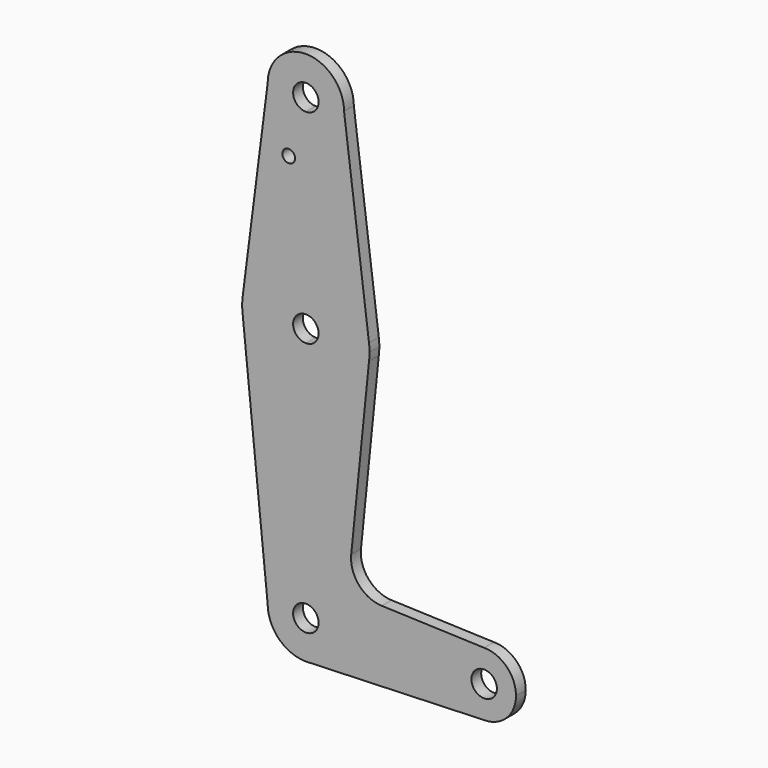
from build123d import *

# Parameters (mm, degrees)
F0_R     = 1.5875
F1_DEPTH = 3.048


with BuildPart() as f1:
    # F0 (on Front) → F1 (new body)
    with BuildSketch(Plane.XZ):
        with BuildLine():
            ThreePointArc((-90.6082894409, 82.9285051771), (-87.8184815317, 76.1933130863), (-81.0832894409, 73.4035051771))
            ThreePointArc((-81.0832894409, 73.4035051771), (-74.3480973501, 76.1933130863), (-71.5582894409, 82.9285051771))
            ThreePointArc((-71.5582894409, 82.9285051771), (-81.0832894409, 92.4535051771), (-90.6082894409, 82.9285051771))
        make_face()
        with BuildLine():
            ThreePointArc((-77.9082894409, 82.9285051771), (-78.8382254107, 80.6834411469), (-81.0832894409, 79.7535051771))
            ThreePointArc((-81.0832894409, 79.7535051771), (-83.3283534712, 85.1735692074), (-77.9082894409, 82.9285051771))
        make_face(mode=Mode.SUBTRACT)
        with BuildLine():
            ThreePointArc((-71.5582894409, 82.9285051771), (-74.3480973501, 76.1933130863), (-81.0832894409, 73.4035051771))
            Line((-81.0832894409, 73.4035051771), (-81.0832894409, 48.0035051771))
            ThreePointArc((-81.0832894409, 48.0035051771), (-70.5920065861, 44.0427239539), (-65.3358325362, 34.1367945075))
            Line((-65.3358325362, 34.1367945075), (-71.5582894409, 82.9285051771))
        make_face()
        with BuildLine():
            Line((-81.0832894409, 48.0035051771), (-81.0832894409, 73.4035051771))
            ThreePointArc((-81.0832894409, 73.4035051771), (-87.8184815317, 76.1933130863), (-90.6082894409, 82.9285051771))
            Line((-90.6082894409, 82.9285051771), (-96.8307463456, 34.1367945075))
            ThreePointArc((-96.8307463456, 34.1367945075), (-91.5745722958, 44.0427239539), (-81.0832894409, 48.0035051771))
        make_face()
        with Locations((-85.3573977947, 68.6537051771)):
            Circle(F0_R, mode=Mode.SUBTRACT)
        with BuildLine():
            ThreePointArc((-65.3358325362, 34.1367945075), (-70.5920065861, 44.0427239539), (-81.0832894409, 48.0035051771))
            Line((-81.0832894409, 48.0035051771), (-81.0832894409, 35.3035051771))
            ThreePointArc((-81.0832894409, 35.3035051771), (-78.8382254107, 34.3735692074), (-77.9082894409, 32.1285051771))
            ThreePointArc((-77.9082894409, 32.1285051771), (-78.8382254107, 29.8834411469), (-81.0832894409, 28.9535051771))
            Line((-81.0832894409, 28.9535051771), (-81.0832894409, 16.2535051771))
            ThreePointArc((-81.0832894409, 16.2535051771), (-70.5920065861, 20.2142864004), (-65.3358325362, 30.1202158468))
            ThreePointArc((-65.3358325362, 30.1202158468), (-65.2402073014, 31.1223375376), (-65.2082894409, 32.1285051771))
            ThreePointArc((-65.2082894409, 32.1285051771), (-65.2402073014, 33.1346728167), (-65.3358325362, 34.1367945075))
        make_face()
        with BuildLine():
            Line((-81.0832894409, 35.3035051771), (-81.0832894409, 48.0035051771))
            ThreePointArc((-81.0832894409, 48.0035051771), (-91.5745722958, 44.0427239539), (-96.8307463456, 34.1367945075))
            ThreePointArc((-96.8307463456, 34.1367945075), (-96.9582894409, 32.1285051771), (-96.8307463456, 30.1202158468))
            ThreePointArc((-96.8307463456, 30.1202158468), (-91.5745722958, 20.2142864004), (-81.0832894409, 16.2535051771))
            Line((-81.0832894409, 16.2535051771), (-81.0832894409, 28.9535051771))
            ThreePointArc((-81.0832894409, 28.9535051771), (-84.2582894409, 32.1285051771), (-81.0832894409, 35.3035051771))
        make_face()
        with BuildLine():
            ThreePointArc((-81.0832894409, 16.2535051771), (-91.5745722958, 20.2142864004), (-96.8307463456, 30.1202158468))
            Line((-96.8307463456, 30.1202158468), (-90.6082894409, -31.3714948229))
            ThreePointArc((-90.6082894409, -31.3714948229), (-87.8184815317, -24.6363027321), (-81.0832894409, -21.8464948229))
            Line((-81.0832894409, -21.8464948229), (-81.0832894409, 16.2535051771))
        make_face()
        with BuildLine():
            ThreePointArc((-65.3358325362, 30.1202158468), (-70.5920065861, 20.2142864004), (-81.0832894409, 16.2535051771))
            Line((-81.0832894409, 16.2535051771), (-81.0832894409, -21.8464948229))
            ThreePointArc((-81.0832894409, -21.8464948229), (-74.3480973501, -24.6363027321), (-71.5582894409, -31.3714948229))
            Line((-71.5582894409, -31.3714948229), (-44.5707894409, -31.3714948229))
            ThreePointArc((-44.5707894409, -31.3714948229), (-42.2459495166, -25.7588347472), (-36.6332894409, -23.4339948229))
            Line((-36.6332894409, -23.4339948229), (-62.1518275664, -22.5226184612))
            ThreePointArc((-62.1518275664, -22.5226184612), (-67.8601287791, -19.8025144907), (-69.7778785666, -13.7770764073))
            Line((-69.7778785666, -13.7770764073), (-65.3358325362, 30.1202158468))
        make_face()
        with BuildLine():
            ThreePointArc((-81.0832894409, -21.8464948229), (-87.8184815317, -24.6363027321), (-90.6082894409, -31.3714948229))
            ThreePointArc((-90.6082894409, -31.3714948229), (-87.8184815317, -38.1066869137), (-81.0832894409, -40.8964948229))
            Line((-81.0832894409, -40.8964948229), (-80.4037989951, -40.8722273069))
            ThreePointArc((-80.4037989951, -40.8722273069), (-74.1119993345, -37.8620063013), (-71.5582894409, -31.3714948229))
            Line((-71.5582894409, -31.3714948229), (-77.9082894409, -31.3714948229))
            ThreePointArc((-77.9082894409, -31.3714948229), (-83.3283534712, -33.6165588531), (-81.0832894409, -28.1964948229))
            Line((-81.0832894409, -28.1964948229), (-81.0832894409, -21.8464948229))
        make_face()
        with BuildLine():
            Line((-80.4037989951, -40.8722273069), (-81.0832894409, -40.8964948229))
            ThreePointArc((-81.0832894409, -40.8964948229), (-80.7433276128, -40.8904260105), (-80.4037989951, -40.8722273069))
        make_face()
        with BuildLine():
            Line((-44.5707894409, -31.3714948229), (-71.5582894409, -31.3714948229))
            ThreePointArc((-71.5582894409, -31.3714948229), (-74.1119993345, -37.8620063013), (-80.4037989951, -40.8722273069))
            Line((-80.4037989951, -40.8722273069), (-36.6332894409, -39.3089948229))
            ThreePointArc((-36.6332894409, -39.3089948229), (-42.2459495166, -36.9841548985), (-44.5707894409, -31.3714948229))
        make_face()
        with BuildLine():
            ThreePointArc((-36.6332894409, -23.4339948229), (-42.2459495166, -25.7588347472), (-44.5707894409, -31.3714948229))
            ThreePointArc((-44.5707894409, -31.3714948229), (-42.2459495166, -36.9841548985), (-36.6332894409, -39.3089948229))
            ThreePointArc((-36.6332894409, -39.3089948229), (-31.0206293653, -36.9841548985), (-28.6957894409, -31.3714948229))
            ThreePointArc((-28.6957894409, -31.3714948229), (-31.0206293653, -25.7588347472), (-36.6332894409, -23.4339948229))
        make_face()
        with BuildLine():
            ThreePointArc((-33.4582894409, -31.3714948229), (-36.6332894409, -34.5464948229), (-39.8082894409, -31.3714948229))
            ThreePointArc((-39.8082894409, -31.3714948229), (-36.6332894409, -28.1964948229), (-33.4582894409, -31.3714948229))
        make_face(mode=Mode.SUBTRACT)
        with BuildLine():
            ThreePointArc((-71.5582894409, -31.3714948229), (-74.3480973501, -24.6363027321), (-81.0832894409, -21.8464948229))
            Line((-81.0832894409, -21.8464948229), (-81.0832894409, -28.1964948229))
            ThreePointArc((-81.0832894409, -28.1964948229), (-78.8382254107, -29.1264307926), (-77.9082894409, -31.3714948229))
            Line((-77.9082894409, -31.3714948229), (-71.5582894409, -31.3714948229))
        make_face()
    extrude(amount=F1_DEPTH)


solid = f1.part
